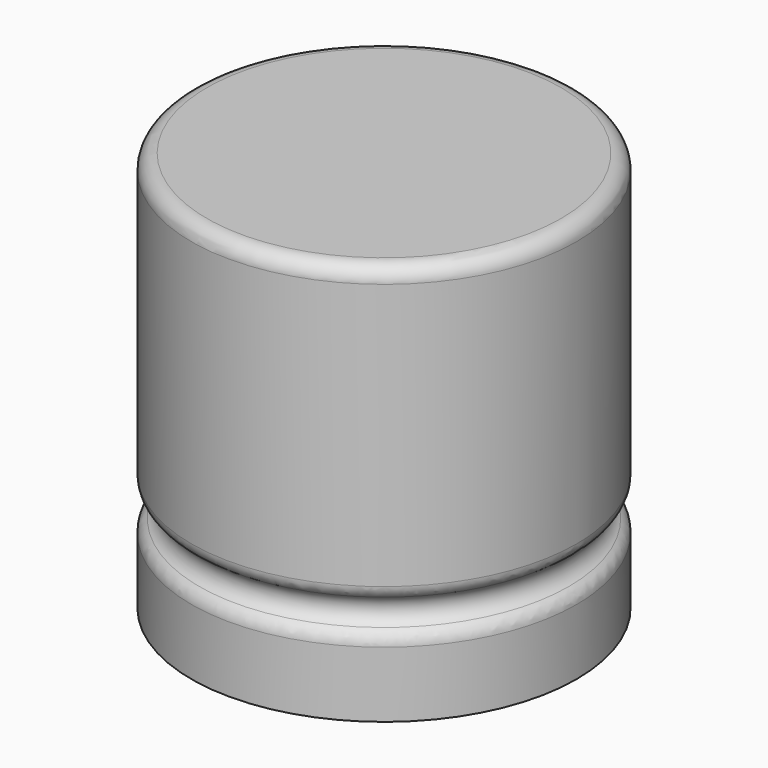
from build123d import *

# Parameters (mm, degrees)
F2_R = 0.2


with BuildPart() as f1:
    # F0 (on Front) → F1 (revolve)
    with BuildSketch(Plane.XZ):
        with BuildLine():
            Line((2.5, 5.2), (0, 5.2))
            Line((0, 5.2), (0, 0))
            Line((0, 0), (2.5, 0))
            Line((2.5, 0), (2.5, 1))
            ThreePointArc((2.5, 1), (2.3, 1.2), (2.5, 1.4))
            Line((2.5, 1.4), (2.5, 5.2))
        make_face()
    revolve(axis=Axis((0, 0, 6.706364), (0, 0, -1)))

    # F2
    f2_edges = [f1.edges().sort_by_distance(p)[0] for p in [
        (-2.5, 0, 1.4),
        (-2.5, 0, 1),
        (-2.5, 0, 5.2),
    ]]
    fillet(f2_edges, radius=F2_R)


solid = f1.part
